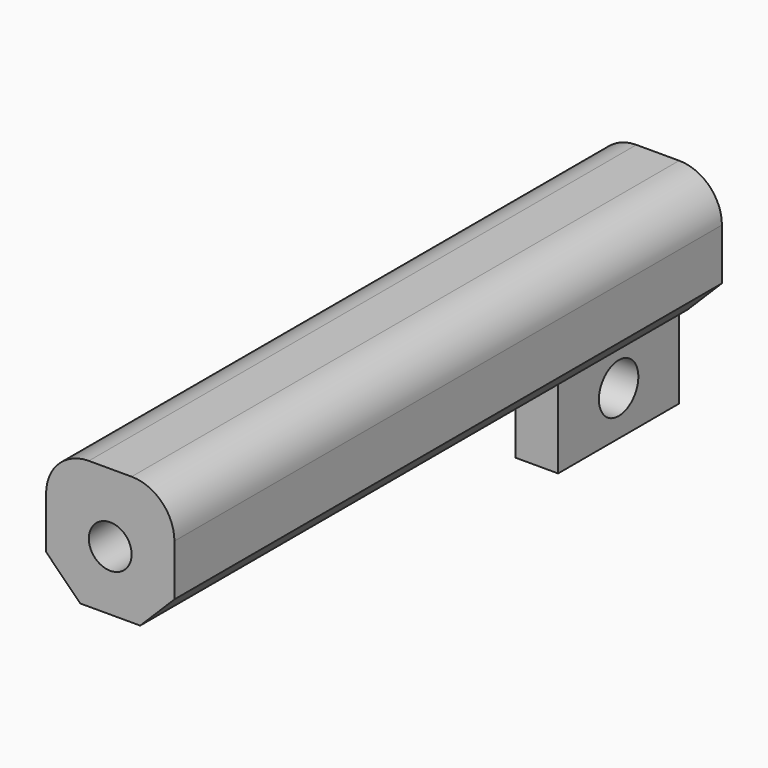
from build123d import *

# Parameters (mm, degrees)
F0_W     = 203.2
F0_H     = 12.7
F1_DEPTH = 38.1
F2_W     = 12.7
F2_H     = 44.917874
F3_DEPTH = 25.4
F4_R     = 12.7
F5_SIZE  = 10.16
F6_R     = 6.35
F7_DEPTH = 228.6
F8_R     = 7.314346
F9_DEPTH = 25.4


with BuildPart() as f1:
    # F0 (on Right) → F1 (new body)
    with BuildSketch(Plane.YZ):
        with Locations((-79.141063, 31.75)):
            Rectangle(F0_W, F0_H)
        with Locations((-79.141063, 19.05)):
            Rectangle(F0_W, F0_H)
        with Locations((-79.141063, 6.35)):
            Rectangle(F0_W, F0_H)
    extrude(amount=F1_DEPTH)

    # F2 (on face) → F3 (join)
    with BuildSketch(Plane(origin=(0, 0, 0), x_dir=(1, 0, 0), z_dir=(0, 0, -1))):
        with Locations((19.05, 0)):
            Rectangle(F2_W, F2_H)
    extrude(amount=F3_DEPTH)

    # F4
    f4_edges = [f1.edges().sort_by_distance(p)[0] for p in [
        (38.1, -79.141063, 38.1),
        (0, -79.141063, 38.1),
    ]]
    fillet(f4_edges, radius=F4_R)

    # F5
    f5_edges = [f1.edges().sort_by_distance(p)[0] for p in [
        (38.1, -79.141063, 0),
        (0, -79.141063, 0),
    ]]
    chamfer(f5_edges, length=F5_SIZE)

    # F6 (on face) → F7 (cut)
    with BuildSketch(Plane.XZ.offset(180.741063)):
        with Locations((19.05, 17.78)):
            Circle(F6_R)
    extrude(amount=-F7_DEPTH, mode=Mode.SUBTRACT)

    # F8 (on face) → F9 (cut)
    with BuildSketch(Plane.YZ.offset(25.4)):
        with Locations((0, -12.215126)):
            Circle(F8_R)
    extrude(amount=-F9_DEPTH, mode=Mode.SUBTRACT)


solid = f1.part
